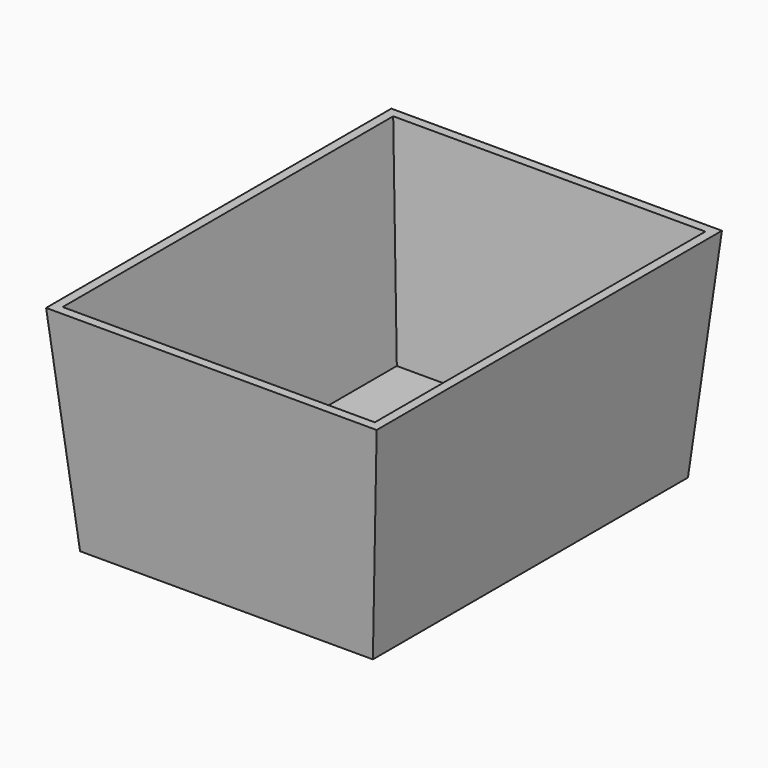
from build123d import *

# Parameters (mm, degrees)
F0_W     = 360
F0_H     = 470
F1_DEPTH = 235
F1_TAPER = 5
F2_T     = -10


with BuildPart() as f1:
    # F0 (on Top) → F1 (new body)
    with BuildSketch(Plane.XY):
        Rectangle(F0_W, F0_H)
    extrude(amount=-F1_DEPTH, taper=F1_TAPER)

    # F2
    f2_openings = [f1.faces().sort_by_distance(p)[0] for p in [
        (0, 0, 0),
    ]]
    offset(amount=F2_T, openings=f2_openings, kind=Kind.INTERSECTION)


solid = f1.part
